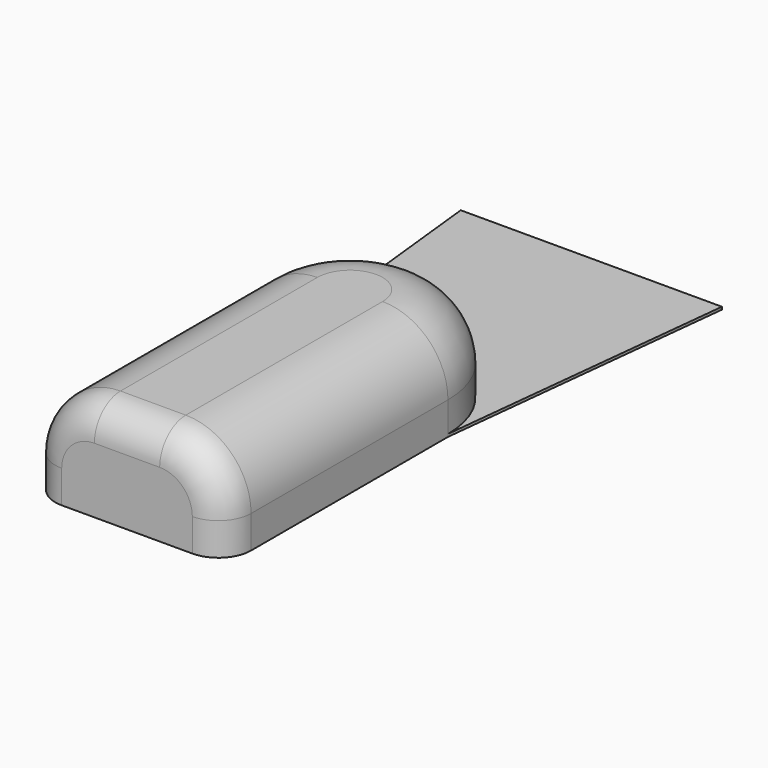
from build123d import *

# Parameters (mm, degrees)
F1_DEPTH = 0.4
F0_W     = 15
F0_H     = 42.6826924086
F2_DEPTH = 15
F3_R     = 10
F4_R     = 5


with BuildPart() as f1:
    # F0 (on Top) → F1 (new body)
    with BuildSketch(Plane.XY):
        with BuildLine():
            ThreePointArc((0, -15.2296504378), (10.6066017178, -19.62304872), (15, -30.2296504378))
            Line((15, -30.2296504378), (20, 15.9674037131))
            Line((20, 15.9674037131), (-20, 15.9674037131))
            Line((-20, 15.9674037131), (-15, -30.2296504378))
            ThreePointArc((-15, -30.2296504378), (-10.6066017178, -19.62304872), (0, -15.2296504378))
        make_face()
    extrude(amount=F1_DEPTH)

    # F0 (on Top) → F2 (join)
    with BuildSketch(Plane.XY):
        with Locations((7.5, -51.5709966421)):
            Rectangle(F0_W, F0_H)
        with BuildLine():
            Line((0, -30.2296504378), (15, -30.2296504378))
            ThreePointArc((15, -30.2296504378), (10.6066017178, -19.62304872), (0, -15.2296504378))
            Line((0, -15.2296504378), (0, -30.2296504378))
        make_face()
        with BuildLine():
            Line((-15, -30.2296504378), (0, -30.2296504378))
            Line((0, -30.2296504378), (0, -15.2296504378))
            ThreePointArc((0, -15.2296504378), (-10.6066017178, -19.62304872), (-15, -30.2296504378))
        make_face()
        with Locations((-7.5, -51.5709966421)):
            Rectangle(F0_W, F0_H)
    extrude(amount=F2_DEPTH)

    # F3
    f3_edges = [f1.edges().sort_by_distance(p)[0] for p in [
        (0, -15.22965, 15),
    ]]
    fillet(f3_edges, radius=F3_R)

    # F4
    f4_edges = [f1.edges().sort_by_distance(p)[0] for p in [
        (12.071068, -72.912343, 12.071068),
    ]]
    fillet(f4_edges, radius=F4_R)


solid = f1.part
